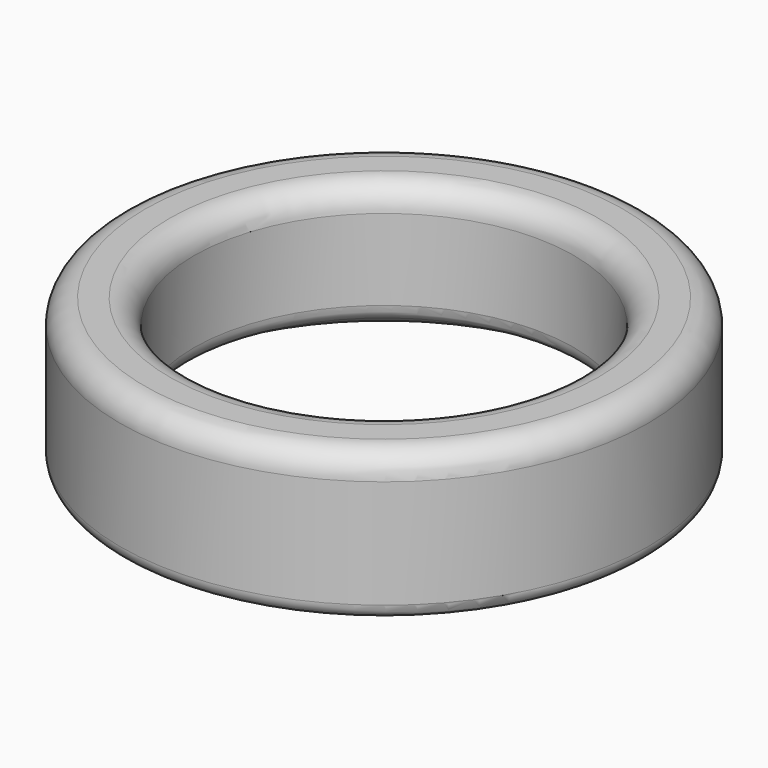
from build123d import *

# Parameters (mm, degrees)
F2_R = 0.5


with BuildPart() as f1:
    # F0 (on Front) → F1 (revolve)
    with BuildSketch(Plane.XZ):
        with BuildLine():
            Line((-4.9, 7.621024), (-4.033975, 8.121024))
            ThreePointArc((-4.033975, 8.121024), (-3.899296, 8.255702), (-3.85, 8.439677))
            Line((-3.85, 8.439677), (-3.85, 10.580831))
            Line((-3.85, 10.580831), (-5.35, 10.580831))
            Line((-5.35, 10.580831), (-5.35, 7.880831))
            ThreePointArc((-5.35, 7.880831), (-5.2, 7.621024), (-4.9, 7.621024))
        make_face()
    revolve(axis=Axis((0, 0, -0.587365), (0, 0, -1)))

    # F2
    f2_edges = [f1.edges().sort_by_distance(p)[0] for p in [
        (3.85, 0, 10.580831),
        (5.35, 0, 10.580831),
    ]]
    fillet(f2_edges, radius=F2_R)


solid = f1.part
